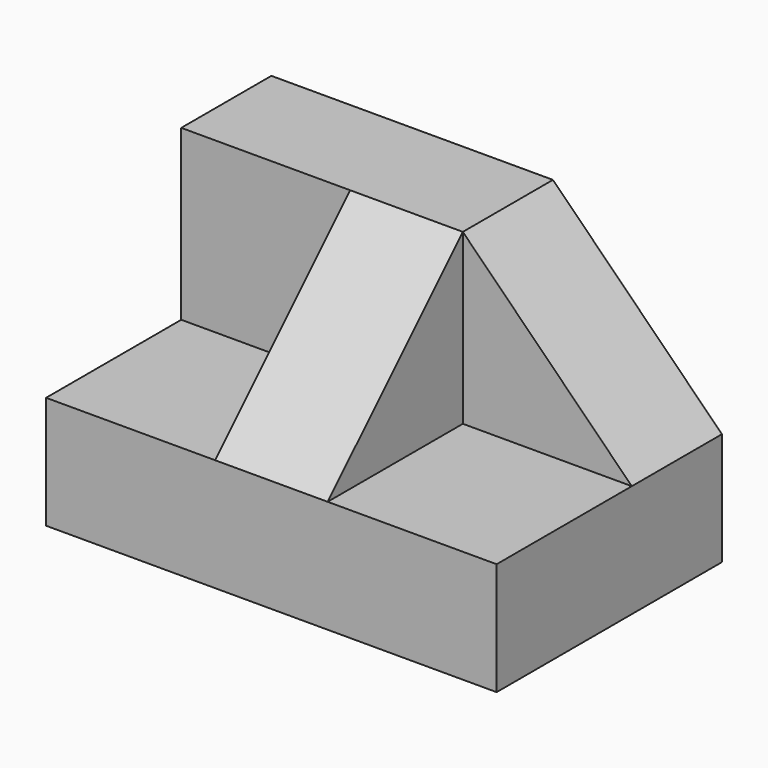
from build123d import *

# Parameters (mm, degrees)
F0_W     = 50.8
F0_H     = 31.75
F1_DEPTH = 31.75
F2_W     = 19.05
F2_H     = 19.05
F3_DEPTH = 19.05
F5_DEPTH = 12.7
F6_W     = 19.05
F6_H     = 19.05
F7_DEPTH = 19.05
F9_DEPTH = 12.7


with BuildPart() as f1:
    # F0 (on Front) → F1 (new body)
    with BuildSketch(Plane.XZ):
        with Locations((-25.4, 25.347491)):
            Rectangle(F0_W, F0_H)
    extrude(amount=F1_DEPTH)

    # F2 (on face) → F3 (cut)
    with BuildSketch(Plane(origin=(-50.8, 0, 0), x_dir=(0, -1, 0), z_dir=(-1, 0, 0))):
        with Locations((22.225, 31.697491)):
            Rectangle(F2_W, F2_H)
    extrude(amount=-F3_DEPTH, mode=Mode.SUBTRACT)

    # F4 (on face) → F5 (cut)
    with BuildSketch(Plane(origin=(-31.75, 0, 0), x_dir=(0, -1, 0), z_dir=(-1, 0, 0))):
        Polygon((31.75, 41.222491), (12.7, 41.222491), (31.75, 22.172491), align=None)
    extrude(amount=-F5_DEPTH, mode=Mode.SUBTRACT)

    # F6 (on face) → F7 (cut)
    with BuildSketch(Plane.YZ):
        with Locations((-22.225, 31.697491)):
            Rectangle(F6_W, F6_H)
    extrude(amount=-F7_DEPTH, mode=Mode.SUBTRACT)

    # F8 (on face) → F9 (cut)
    with BuildSketch(Plane(origin=(0, 0, 0), x_dir=(-1, 0, 0), z_dir=(0, 1, 0))):
        Polygon((0, 22.172491), (19.05, 41.222491), (0, 41.222491), align=None)
    extrude(amount=-F9_DEPTH, mode=Mode.SUBTRACT)


solid = f1.part
